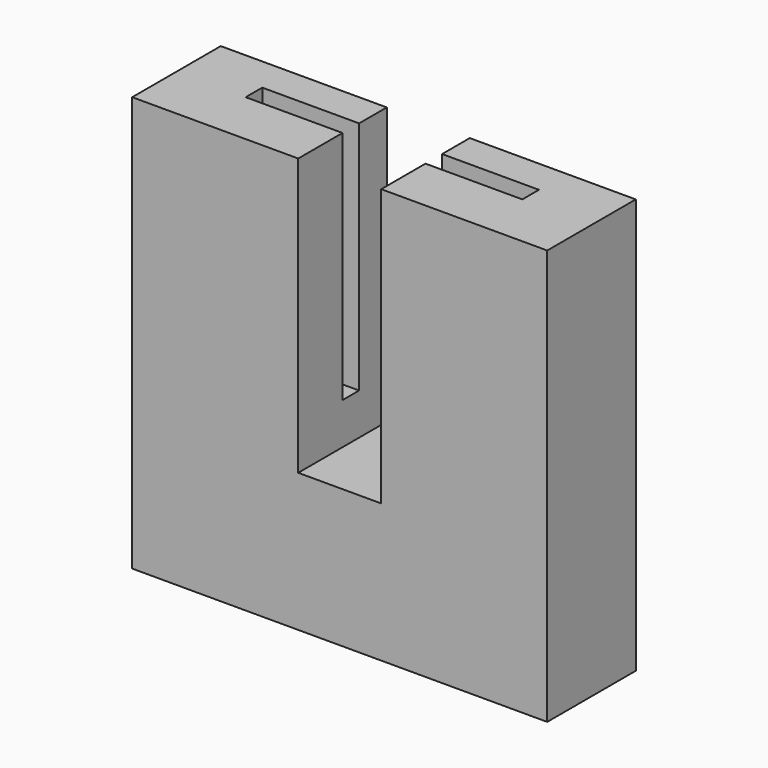
from build123d import *

# Parameters (mm, degrees)
F0_W     = 30
F0_H     = 8
F1_DEPTH = 30
F3_W     = 6
F3_H     = 2.5
F3_H_2   = 4
F4_DEPTH = 20
F2_W     = 20
F2_H     = 1.5
F5_DEPTH = 20
F6_W     = 7
F6_H     = 1.5
F7_DEPTH = 3


with BuildPart() as f1:
    # F0 (on Top) → F1 (new body)
    with BuildSketch(Plane.XY):
        with Locations((-15, -4)):
            Rectangle(F0_W, F0_H)
    extrude(amount=F1_DEPTH)

    # F3 (on face) → F4 (cut)
    with BuildSketch(Plane.XY.offset(30)):
        with Locations((-15, -1.25)):
            Rectangle(F3_W, F3_H)
        with Locations((-15, -1.25)):
            Rectangle(F3_W, F3_H)
        with Locations((-15, -6)):
            Rectangle(F3_W, F3_H_2)
    extrude(amount=-F4_DEPTH, mode=Mode.SUBTRACT)

    # F2 (on face) → F5 (cut)
    with BuildSketch(Plane.XY.offset(30)):
        with Locations((-15, -3.25)):
            Rectangle(F2_W, F2_H)
    extrude(amount=-F5_DEPTH, mode=Mode.SUBTRACT)

    # F6 (on face) → F7 (join)
    with BuildSketch(Plane.XY.offset(10)):
        with Locations((-8.5, -3.25)):
            Rectangle(F6_W, F6_H)
        with Locations((-21.5, -3.25)):
            Rectangle(F6_W, F6_H)
    extrude(amount=F7_DEPTH)


solid = f1.part
